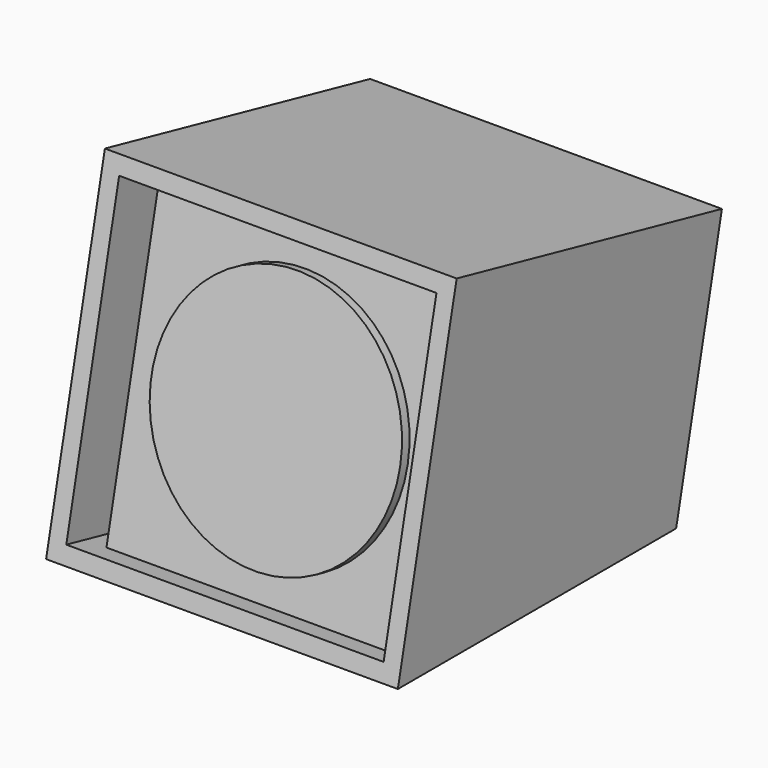
from build123d import *

# Parameters (mm, degrees)
F1_DEPTH = 368.3
F2_W     = 332.232
F2_H     = 319.532
F3_DEPTH = 25.4
F4_R     = 130.175
F5_DEPTH = 10.16
F6_W     = 22.225
F6_H     = 319.532
F7_DEPTH = 50.8


with BuildPart() as f1:
    # F0 (on Right) → F1 (new body)
    with BuildSketch(Plane.YZ):
        Polygon((76.9659267164, 347.1708601318), (0, 0), (364.2337952902, 0), (424.1367868482, 270.2049334155), align=None)
    extrude(amount=F1_DEPTH)

    # F2 (on face) → F3 (cut)
    with BuildSketch(Plane(origin=(0, 0, 0), x_dir=(1, 0, 0), z_dir=(0, -0.9762960071, 0.2164396139))):
        with Locations((184.15, 177.8)):
            Rectangle(F2_W, F2_H)
    extrude(amount=-F3_DEPTH, mode=Mode.SUBTRACT)

    # F4 (on face) → F5 (join)
    with BuildSketch(Plane(origin=(0, 24.7979185808, -5.497566194), x_dir=(1, 0, 0), z_dir=(0, -0.9762960071, 0.2164396139))):
        with Locations((197.866, 177.8)):
            Circle(F4_R)
    extrude(amount=F5_DEPTH)

    # F6 (on face) → F7 (cut)
    with BuildSketch(Plane(origin=(0, 24.7979185808, -5.497566194), x_dir=(1, 0, 0), z_dir=(0, -0.9762960071, 0.2164396139))):
        with Locations((29.1465, 177.8)):
            Rectangle(F6_W, F6_H)
    extrude(amount=-F7_DEPTH, mode=Mode.SUBTRACT)


solid = f1.part
